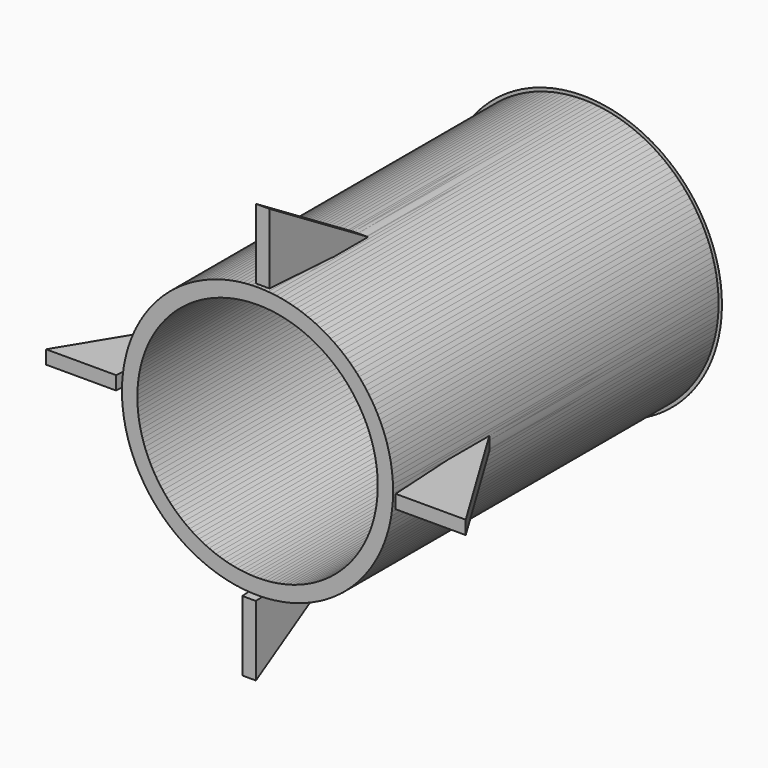
from build123d import *

# Parameters (mm, degrees)
F0_R     = 25.4
F1_DEPTH = 76.2
F2_R     = 22.549547
F3_DEPTH = 76.2
F5_DEPTH = 2.54
F8_COUNT = 4


with BuildPart() as f1:
    # F0 (on Front) → F1 (new body)
    with BuildSketch(Plane.XZ):
        Circle(F0_R)
    extrude(amount=F1_DEPTH)

    # F2 (on Front) → F3 (cut)
    with BuildSketch(Plane.XZ):
        Circle(F2_R)
    extrude(amount=F3_DEPTH, mode=Mode.SUBTRACT)

    # F4 (on Top) → F5 (join)
    with BuildSketch(Plane.XY):
        Polygon((-39.302394, -76.587111), (-26.181325, -76.587111), (-24.755122, -52.626897), align=None)
    extrude(amount=F5_DEPTH)

    # F6 (on Top) → F7 (revolve)
    with BuildSketch(Plane.XY):
        Polygon((0, 22.254711), (-26.022831, 0), (0, 0), align=None)
    revolve(axis=Axis((0, 11.127356, 0), (0, -1, 0)))


with BuildPart() as f8_1:
    # F8: instance of F1
    add(f1.part.rotate(Axis((0, 0, 0), (0, 1, 0)), 1 * 360 / F8_COUNT))


with BuildPart() as f8_2:
    # F8: instance of F1
    add(f1.part.rotate(Axis((0, 0, 0), (0, 1, 0)), 2 * 360 / F8_COUNT))


with BuildPart() as f8_3:
    # F8: instance of F1
    add(f1.part.rotate(Axis((0, 0, 0), (0, 1, 0)), 3 * 360 / F8_COUNT))


solid = Compound([f1.part, f8_1.part, f8_2.part, f8_3.part])
